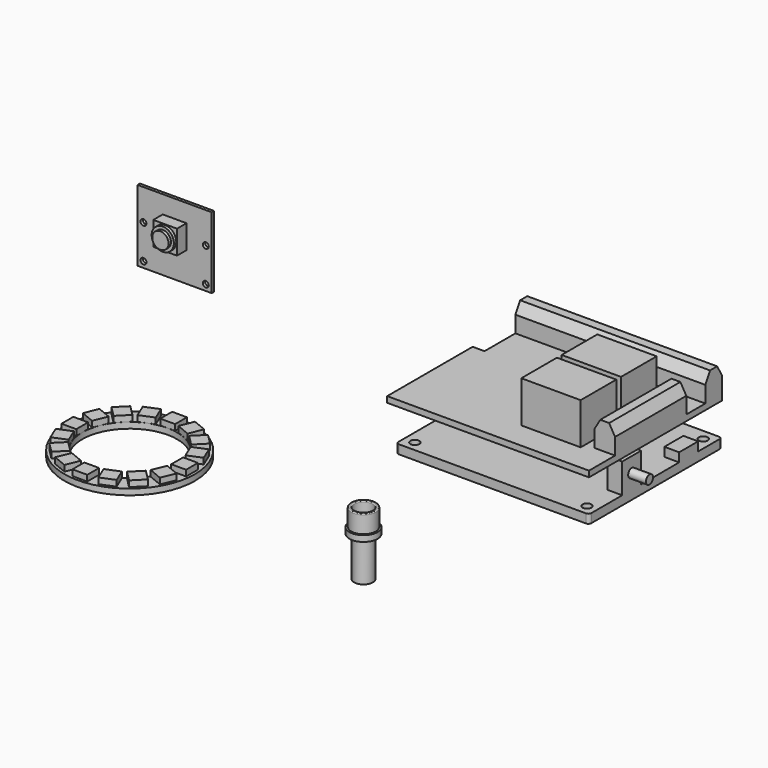
from build123d import *

# Parameters (mm, degrees)
F1_R        = 1.5
F2_DEPTH    = 3
F3_W        = 8
F3_H        = 10
F3_H_2      = 3
F4_DEPTH    = 5
F5_R        = 1.5
F6_DEPTH    = 6
F7_R        = 22
F7_R_2      = 16
F8_DEPTH    = 2
F9_W        = 5
F9_H        = 5
F10_DEPTH   = 2
F13_DEPTH   = 2
F14_W       = 64
F14_H       = 7
F14_W_2     = 7
F14_H_2     = 30
F15_DEPTH   = 9
F16_SIZE2   = 3.4641016151
F16_SIZE    = 2
F16_2_SIZE2 = 3.4641016151
F16_2_SIZE  = 2
F17_W       = 20
F17_H       = 15
F18_DEPTH   = 16
F21_W       = 25
F21_H       = 24
F21_R       = 1
F22_DEPTH   = 1
F23_W       = 8
F23_H       = 8
F24_DEPTH   = 4
F25_R       = 3.75
F26_DEPTH   = 1
F27_R       = 2.75
F28_DEPTH   = 1


with BuildPart() as f2:
    # F1 (on offset) → F2 (new body)
    with BuildSketch(Plane.XY.offset(10)):
        with BuildLine():
            ThreePointArc((19.998, 1), (20.2908932188, 0.2928932188), (20.998, 0))
            Line((20.998, 0), (83.998, 0))
            ThreePointArc((83.998, 0), (84.7051067812, 0.2928932188), (84.998, 1))
            Line((84.998, 1), (84.998, 55))
            ThreePointArc((84.998, 55), (84.7051067812, 55.7071067812), (83.998, 56))
            Line((83.998, 56), (20.998, 56))
            ThreePointArc((20.998, 56), (20.2908932188, 55.7071067812), (19.998, 55))
            Line((19.998, 55), (19.998, 1))
        make_face()
        with Locations((23.5795132479, 3.4166420319)):
            Circle(F1_R, mode=Mode.SUBTRACT)
        with Locations((81.5795132479, 3.4166420319)):
            Circle(F1_R, mode=Mode.SUBTRACT)
        with Locations((23.5795132479, 52.4166420319)):
            Circle(F1_R, mode=Mode.SUBTRACT)
        with Locations((81.5795132479, 52.4166420319)):
            Circle(F1_R, mode=Mode.SUBTRACT)
    extrude(amount=F2_DEPTH)

    # F3 (on face) → F4 (join)
    with BuildSketch(Plane.YZ.offset(84.998)):
        with Locations((18, 18)):
            Rectangle(F3_W, F3_H)
        with Locations((42, 14.5)):
            Rectangle(F3_W, F3_H_2)
    extrude(amount=-F4_DEPTH)

    # F5 (on face) → F6 (join)
    with BuildSketch(Plane.YZ.offset(84.998)):
        with Locations((18, 18)):
            Circle(F5_R)
    extrude(amount=F6_DEPTH)


with BuildPart() as f8:
    # F7 (on Top) → F8 (new body)
    with BuildSketch(Plane.XY):
        with Locations((-45.5160774291, -30.3248018026)):
            Circle(F7_R)
        with Locations((-45.5160774291, -30.3248018026)):
            Circle(F7_R_2, mode=Mode.SUBTRACT)
    extrude(amount=F8_DEPTH)

    # F9 (on face) → F10 (join)
    with BuildSketch(Plane.XY.offset(2)):
        with Locations((-64.0160774291, -30.3248018026)):
            Rectangle(F9_W, F9_H)
        Polygon((-59.3414413683, -38.7574355518), (-61.2548585301, -34.1380378892), (-65.8742561927, -36.051455051), (-63.9608390309, -40.6708527136), align=None)
        Polygon((-55.0620189751, -43.4062772546), (-58.597552881, -39.8707433487), (-62.1330867869, -43.4062772546), (-58.597552881, -46.9418111605), align=None)
        Polygon((-49.3293135156, -46.0635829037), (-53.9487111782, -44.1501657419), (-55.86212834, -48.7695634045), (-51.2427306774, -50.6829805663), align=None)
        with Locations((-45.5160774291, -48.8248018026)):
            Rectangle(F9_W, F9_H)
        Polygon((-37.0834436799, -44.1501657419), (-41.7028413425, -46.0635829037), (-39.7894241807, -50.6829805663), (-35.1700265181, -48.7695634045), align=None)
        Polygon((-32.4346019771, -39.8707433487), (-35.970135883, -43.4062772546), (-32.4346019771, -46.9418111605), (-28.8990680712, -43.4062772546), align=None)
        Polygon((-29.777296328, -34.1380378892), (-31.6907134898, -38.7574355518), (-27.0713158272, -40.6708527136), (-25.1578986654, -36.051455051), align=None)
        with Locations((-27.0160774291, -30.3248018026)):
            Rectangle(F9_W, F9_H)
        Polygon((-31.6907134898, -21.8921680535), (-29.777296328, -26.5115657161), (-25.1578986654, -24.5981485542), (-27.0713158272, -19.9787508917), align=None)
        Polygon((-35.970135883, -17.2433263507), (-32.4346019771, -20.7788602566), (-28.8990680712, -17.2433263507), (-32.4346019771, -13.7077924448), align=None)
        Polygon((-41.7028413425, -14.5860207015), (-37.0834436799, -16.4994378634), (-35.1700265181, -11.8800402008), (-39.7894241807, -9.966623039), align=None)
        with Locations((-45.5160774291, -11.8248018026)):
            Rectangle(F9_W, F9_H)
        Polygon((-53.9487111782, -16.4994378634), (-49.3293135156, -14.5860207015), (-51.2427306774, -9.966623039), (-55.86212834, -11.8800402008), align=None)
        Polygon((-58.597552881, -20.7788602566), (-55.0620189751, -17.2433263507), (-58.597552881, -13.7077924448), (-62.1330867869, -17.2433263507), align=None)
        Polygon((-61.2548585301, -26.5115657161), (-59.3414413683, -21.8921680535), (-63.9608390309, -19.9787508917), (-65.8742561927, -24.5981485542), align=None)
    extrude(amount=F10_DEPTH)


with BuildPart() as f13:
    # F12 (on offset) → F13 (new body)
    with BuildSketch(Plane.XY.offset(24)):
        Polygon((84.998, 0), (84.998, 56), (20.998, 56), (20.998, 36), (16.998, 36), (16.998, 0), align=None)
    extrude(amount=F13_DEPTH)

    # F14 (on face) → F15 (join)
    with BuildSketch(Plane.XY.offset(26)):
        with Locations((52.998, 52.5)):
            Rectangle(F14_W, F14_H)
        with Locations((81.498, 26)):
            Rectangle(F14_W_2, F14_H_2)
    extrude(amount=F15_DEPTH)

    # F16
    f16_edges = [f13.edges().sort_by_distance(p)[0] for p in [
        (77.998, 26, 35),
        (84.998, 26, 35),
    ]]
    f16_side = f13.faces().sort_by_distance((81.498, 26, 35))[0]
    chamfer(f16_edges, length=F16_SIZE, length2=F16_SIZE2, reference=f16_side)

    # F16#2
    f16_2_edges = [f13.edges().sort_by_distance(p)[0] for p in [
        (52.998, 49, 35),
        (52.998, 56, 35),
    ]]
    f16_2_side = f13.faces().sort_by_distance((52.998, 52.5, 35))[0]
    chamfer(f16_2_edges, length=F16_2_SIZE, length2=F16_2_SIZE2, reference=f16_2_side)

    # F17 (on offset) → F18 (join)
    with BuildSketch(Plane.XY.offset(24)):
        with Locations((64.998, 33.5)):
            Rectangle(F17_W, F17_H)
        with Locations((64.998, 16.5)):
            Rectangle(F17_W, F17_H)
    extrude(amount=F18_DEPTH)


with BuildPart() as f20:
    # F19 (on Front) → F20 (revolve)
    with BuildSketch(Plane.XZ):
        with BuildLine():
            Line((12.8719275825, -9.398075133), (12.4719275825, -9.398075133))
            ThreePointArc((12.4719275825, -9.398075133), (12.2597955482, -9.4859430987), (12.1719275825, -9.698075133))
            Line((12.1719275825, -9.698075133), (12.1719275825, -15.398075133))
            Line((12.1719275825, -15.398075133), (9.0219275825, -15.398075133))
            Line((9.0219275825, -15.398075133), (9.0219275825, -30.840801694))
            Line((9.0219275825, -30.840801694), (12.1719275825, -30.840801694))
            Line((12.1719275825, -30.840801694), (12.1719275825, -17.398075133))
            Line((12.1719275825, -17.398075133), (13.7719275825, -17.398075133))
            Line((13.7719275825, -17.398075133), (13.7719275825, -15.398075133))
            Line((13.7719275825, -15.398075133), (13.1719275825, -15.398075133))
            Line((13.1719275825, -15.398075133), (13.1719275825, -9.698075133))
            ThreePointArc((13.1719275825, -9.698075133), (13.0840596169, -9.4859430987), (12.8719275825, -9.398075133))
        make_face()
    revolve(axis=Axis((9.0219275825, 0, -23.1194384135), (0, 0, 1)))


with BuildPart() as f22:
    # F21 (on Front) → F22 (new body)
    with BuildSketch(Plane.XZ):
        with Locations((-53.8265563751, 49.9697977901)):
            Rectangle(F21_W, F21_H)
        with Locations((-64.3265563751, 39.9697977901)):
            Circle(F21_R, mode=Mode.SUBTRACT)
        with Locations((-43.3265563751, 39.9697977901)):
            Circle(F21_R, mode=Mode.SUBTRACT)
        with Locations((-64.3265563751, 51.4697977901)):
            Circle(F21_R, mode=Mode.SUBTRACT)
        with Locations((-43.3265563751, 51.4697977901)):
            Circle(F21_R, mode=Mode.SUBTRACT)
    extrude(amount=F22_DEPTH)

    # F23 (on face) → F24 (join)
    with BuildSketch(Plane.XZ.offset(1)):
        with Locations((-53.8265563751, 51.9697977901)):
            Rectangle(F23_W, F23_H)
    extrude(amount=F24_DEPTH)

    # F25 (on face) → F26 (join)
    with BuildSketch(Plane.XZ.offset(5)):
        with Locations((-53.8265563751, 51.9697977901)):
            Circle(F25_R)
    extrude(amount=F26_DEPTH)

    # F27 (on face) → F28 (join)
    with BuildSketch(Plane.XZ.offset(6)):
        with Locations((-53.8265563751, 51.9697977901)):
            Circle(F27_R)
    extrude(amount=F28_DEPTH)


solid = Compound([f2.part, f8.part, f13.part, f20.part, f22.part])
